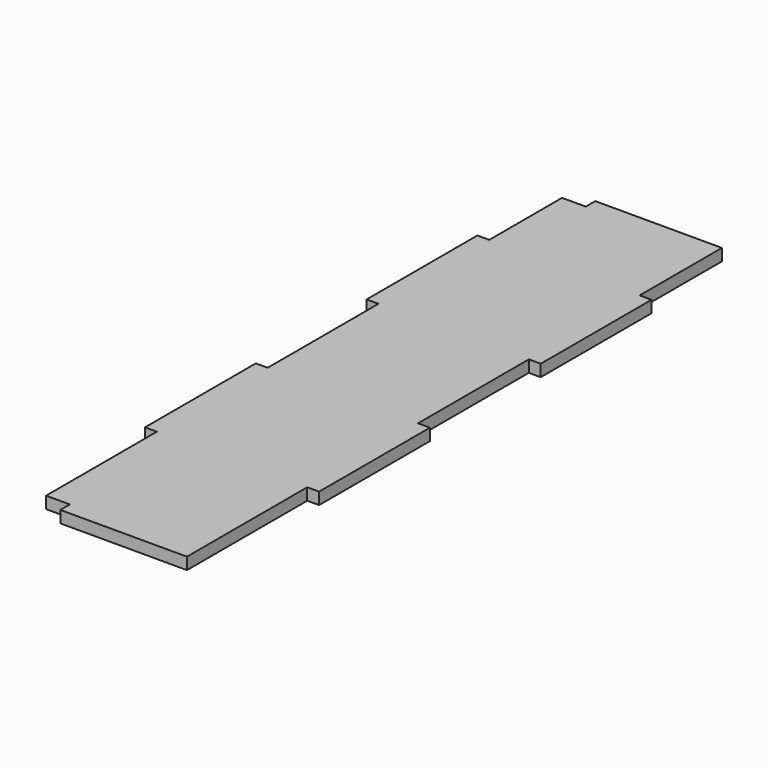
from build123d import *

# Parameters (mm, degrees)
F1_DEPTH = 3


with BuildPart() as f1:
    # F0 (on Top) → F1 (new body)
    with BuildSketch(Plane.XY):
        Polygon((22, 23.5), (22, 58.5), (19, 58.5), (19, 84.5), (-13, 84.5), (-13, 81.5), (-19, 81.5), (-19, 58.5), (-22, 58.5), (-22, 23.5), (-19, 23.5), (-19, -11.5), (-22, -11.5), (-22, -46.5), (-19, -46.5), (-19, -81.5), (-13, -81.5), (-13, -84.5), (19, -84.5), (19, -46.5), (22, -46.5), (22, -11.5), (19, -11.5), (19, 23.5), align=None)
    extrude(amount=F1_DEPTH)


solid = f1.part
